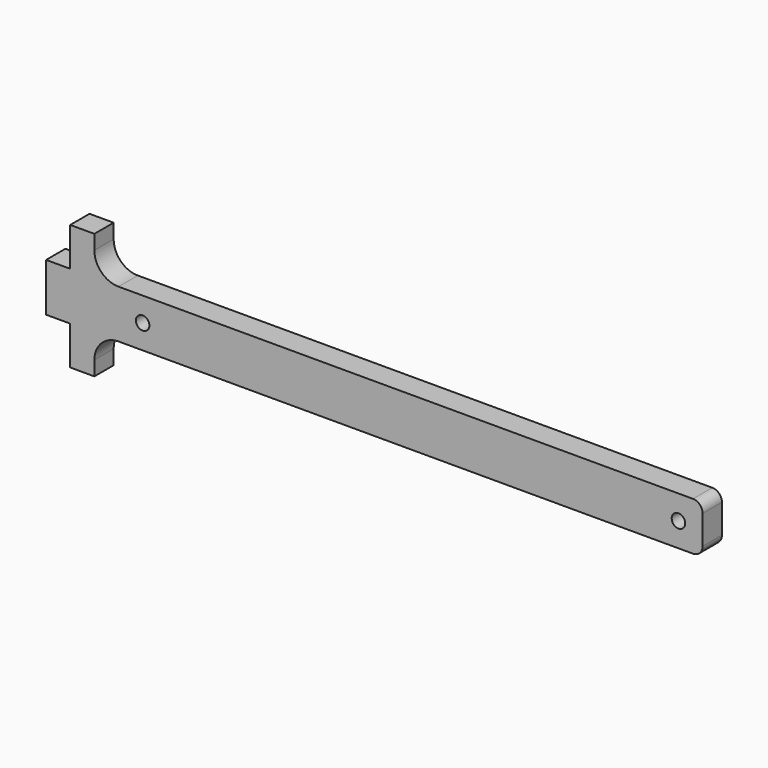
from build123d import *

# Parameters (mm, degrees)
F0_R     = 1.4
F1_DEPTH = 5


with BuildPart() as f1:
    # F0 (on Front) → F1 (new body)
    with BuildSketch(Plane.XZ):
        with BuildLine():
            ThreePointArc((-10, -10), (-8.535534, -6.464466), (-5, -5))
            Line((-5, -5), (114, -5))
            ThreePointArc((114, -5), (115.414214, -4.414214), (116, -3))
            Line((116, -3), (116, 3))
            ThreePointArc((116, 3), (115.414214, 4.414214), (114, 5))
            Line((114, 5), (-5, 5))
            ThreePointArc((-5, 5), (-8.535534, 6.464466), (-10, 10))
            Line((-10, 10), (-10, 13))
            Line((-10, 13), (-15, 13))
            Line((-15, 13), (-15, 5))
            Line((-15, 5), (-20, 5))
            Line((-20, 5), (-20, -5))
            Line((-20, -5), (-15, -5))
            Line((-15, -5), (-15, -13))
            Line((-15, -13), (-10, -13))
            Line((-10, -13), (-10, -10))
        make_face()
        Circle(F0_R, mode=Mode.SUBTRACT)
        with Locations((111, 0)):
            Circle(F0_R, mode=Mode.SUBTRACT)
    extrude(amount=F1_DEPTH)


solid = f1.part
